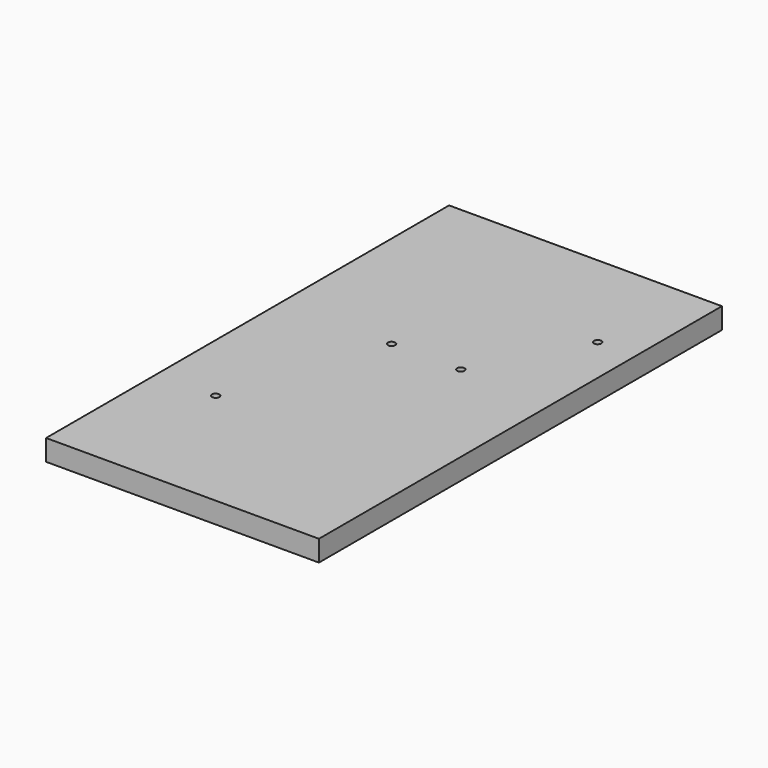
from build123d import *

# Parameters (mm, degrees)
SKETCH_W             = 130
SKETCH_H             = 240
PAD_DEPTH            = 10
SKETCH015_R          = 1.75
POCKET008_DEPTH      = 10.001
POCKET008_DEPTH_BACK = 0.001
SKETCH016_R          = 4
POCKET009_DEPTH      = 3


with BuildPart() as part:
    # Sketch → Pad (new body)
    with BuildSketch(Plane.XY):
        Rectangle(SKETCH_W, SKETCH_H)
    extrude(amount=PAD_DEPTH)

    # Sketch015 (on Face6 of Pad) → Pocket008 (cut, two sides)
    with BuildSketch(Plane.XY.offset(10)) as pocket008_sk:
        with Locations((47, 68.5)):
            Circle(SKETCH015_R)
        with Locations((21, 19.5)):
            Circle(SKETCH015_R)
        with Locations((-12, 19.5)):
            Circle(SKETCH015_R)
        with Locations((-37, -54)):
            Circle(SKETCH015_R)
    extrude(amount=-POCKET008_DEPTH, mode=Mode.SUBTRACT)
    extrude(pocket008_sk.sketch, amount=POCKET008_DEPTH_BACK, mode=Mode.SUBTRACT)

    # Sketch016 (on Face4 of Pocket008) → Pocket009 (cut)
    with BuildSketch(Plane(origin=(0, 0, 0), x_dir=(1, 0, 0), z_dir=(0, 0, -1))):
        with Locations((-37, 54)):
            Circle(SKETCH016_R)
        with Locations((-12, -19.5)):
            Circle(SKETCH016_R)
        with Locations((21, -19.5)):
            Circle(SKETCH016_R)
        with Locations((47, -68.5)):
            Circle(SKETCH016_R)
    extrude(amount=-POCKET009_DEPTH, mode=Mode.SUBTRACT)


solid = part.part
